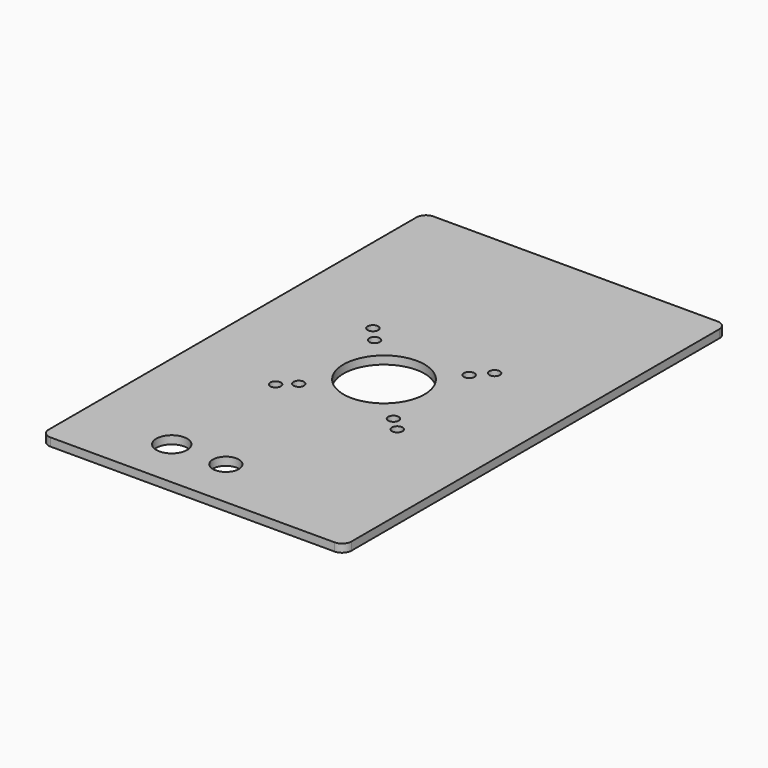
from build123d import *

# Parameters (mm, degrees)
PAD_DEPTH     = 3
SKETCH002_R   = 1.95
HOLE_DEPTH    = 3.001
SKETCH_R      = 15
HOLE001_DEPTH = 3.001
SKETCH003_R   = 1.95
HOLE002_DEPTH = 3.001
SKETCH004_R   = 5.7
SKETCH004_R_2 = 4.8
POCKET_DEPTH  = 3.001


with BuildPart() as part:
    # Sketch001 → Pad (new body)
    with BuildSketch(Plane.XY):
        with BuildLine():
            Line((11.5, 190), (11.5, 20))
            ThreePointArc((11.5, 20), (12.525126, 17.525126), (15, 16.5))
            Line((15, 16.5), (120, 16.5))
            ThreePointArc((120, 16.5), (122.474874, 17.525126), (123.5, 20))
            Line((123.5, 20), (123.5, 190))
            ThreePointArc((123.5, 190), (122.474874, 192.474874), (120, 193.5))
            Line((120, 193.5), (15, 193.5))
            ThreePointArc((15, 193.5), (12.525126, 192.474874), (11.5, 190))
        make_face()
    extrude(amount=PAD_DEPTH)

    # Sketch002 → Hole (cut, through all)
    with BuildSketch(Plane.XY):
        with Locations((50, 87.5)):
            Circle(SKETCH002_R)
        with Locations((85, 87.5)):
            Circle(SKETCH002_R)
        with Locations((85, 122.5)):
            Circle(SKETCH002_R)
        with Locations((50, 122.5)):
            Circle(SKETCH002_R)
    extrude(amount=HOLE_DEPTH, mode=Mode.SUBTRACT)

    # Sketch → Hole001 (cut, through all)
    with BuildSketch(Plane.XY):
        with Locations((67.5, 105)):
            Circle(SKETCH_R)
    extrude(amount=HOLE001_DEPTH, mode=Mode.SUBTRACT)

    # Sketch003 → Hole002 (cut, through all)
    with BuildSketch(Plane.XY):
        with Locations((90, 83)):
            Circle(SKETCH003_R)
        with Locations((45, 83)):
            Circle(SKETCH003_R)
        with Locations((45, 128)):
            Circle(SKETCH003_R)
        with Locations((90, 128)):
            Circle(SKETCH003_R)
    extrude(amount=HOLE002_DEPTH, mode=Mode.SUBTRACT)

    # Sketch004 → Pocket (cut, through all)
    with BuildSketch(Plane.XY):
        with Locations((45, 35)):
            Circle(SKETCH004_R)
        with Locations((65, 35)):
            Circle(SKETCH004_R_2)
    extrude(amount=POCKET_DEPTH, mode=Mode.SUBTRACT)


solid = part.part
